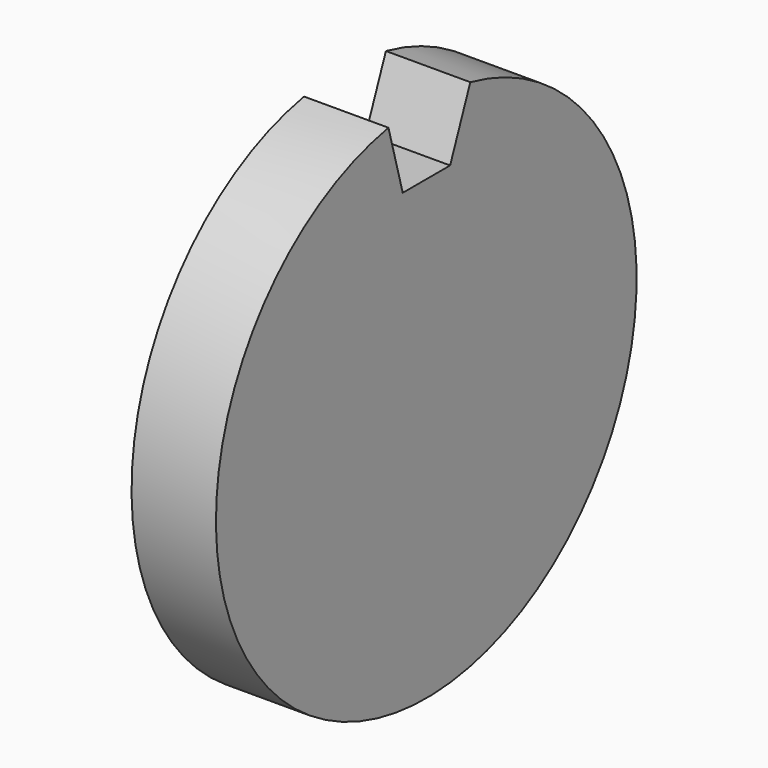
from build123d import *

# Parameters (mm, degrees)
F0_R          = 47.472958
F1_DEPTH      = 7.62
F1_DEPTH_BACK = 7.62
F3_DEPTH      = 25.4
F3_DEPTH_BACK = 25.4


with BuildPart() as f1:
    # F0 (on Right) → F1 (new body, two sides)
    with BuildSketch(Plane.YZ) as f1_sk:
        Circle(F0_R)
    extrude(amount=F1_DEPTH)
    extrude(f1_sk.sketch, amount=-F1_DEPTH_BACK)

    # F2 (on face) → F3 (cut, two sides)
    with BuildSketch(Plane.YZ.offset(7.62)) as f3_sk:
        with BuildLine():
            Line((-5.313096, 35.038222), (0, 35.038222))
            Line((0, 35.038222), (5.385154, 35.038222))
            Line((5.385154, 35.038222), (9.938281, 46.421033))
            ThreePointArc((9.938281, 46.421033), (0.711757, 47.467622), (-8.541997, 46.698137))
            Line((-8.541997, 46.698137), (-5.313096, 35.038222))
        make_face()
        with BuildLine():
            ThreePointArc((-8.541997, 46.698137), (0.711757, 47.467622), (9.938281, 46.421033))
            Line((9.938281, 46.421033), (11.56637, 50.491255))
            Line((11.56637, 50.491255), (-9.592399, 50.491255))
            Line((-9.592399, 50.491255), (-8.541997, 46.698137))
        make_face()
    extrude(amount=F3_DEPTH, mode=Mode.SUBTRACT)
    extrude(f3_sk.sketch, amount=-F3_DEPTH_BACK, mode=Mode.SUBTRACT)


solid = f1.part
